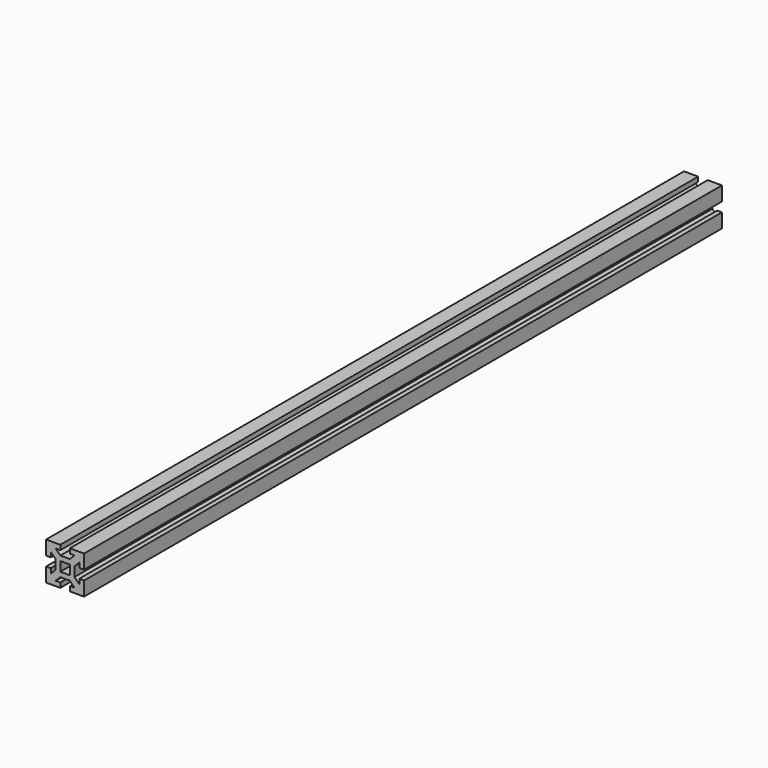
from build123d import *

# Parameters (mm, degrees)
F1_DEPTH = 840


with BuildPart() as f1:
    # F0 (on Front) → F1 (new body)
    with BuildSketch(Plane.XZ):
        Polygon((20, 5), (20, 20), (5, 20), (5, 15), (10, 15), (5, 10), (-5, 10), (-10, 15), (-5, 15), (-5, 20), (-20, 20), (-20, 5), (-15, 5), (-15, 10), (-10, 5), (-10, -5), (-15, -10), (-15, -5), (-20, -5), (-20, -20), (-5, -20), (-5, -15), (-10, -15), (-5, -10), (5, -10), (10, -15), (5, -15), (5, -20), (20, -20), (20, -5), (15, -5), (15, -10), (10, -5), (10, 5), (15, 10), (15, 5), align=None)
        Polygon((-5, 0), (-5, 5), (0, 5), (5, 5), (5, 0), (5, -5), (0, -5), (-5, -5), align=None, mode=Mode.SUBTRACT)
    extrude(amount=F1_DEPTH)


solid = f1.part
